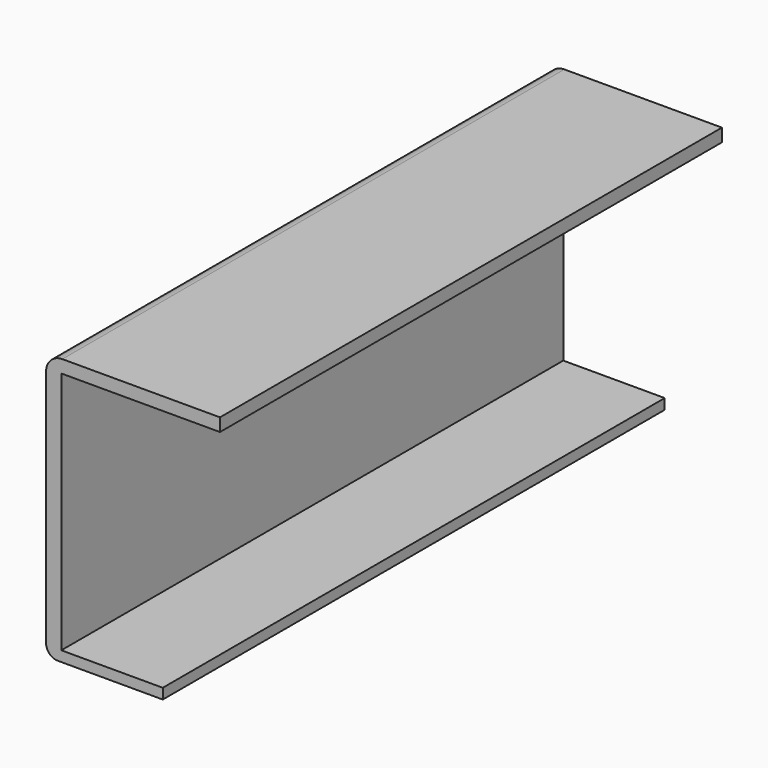
from build123d import *

# Parameters (mm, degrees)
F0_W     = 195.9098130465
F0_H     = 83.3830982447
F1_DEPTH = 4.7625
F2_W     = 195.9098130465
F2_H     = 3.2381750643
F3_DEPTH = 34.8488
F4_R     = 3.6792614691
F5_DEPTH = 3.175
F6_W     = 195.9098130465
F6_H     = 4.0477178991
F7_DEPTH = 49.53
F8_R     = 5.08


with BuildPart() as f1:
    # F0 (on Right) → F1 (new body)
    with BuildSketch(Plane.YZ):
        Rectangle(F0_W, F0_H)
    extrude(amount=F1_DEPTH)

    # F2 (on face) → F3 (join)
    with BuildSketch(Plane.YZ.offset(4.7625)):
        with Locations((0, -40.0724615902)):
            Rectangle(F2_W, F2_H)
    extrude(amount=F3_DEPTH)

    # F4
    f4_edges = [f1.edges().sort_by_distance(p)[0] for p in [
        (0, 0, -41.691549),
    ]]
    fillet(f4_edges, radius=F4_R)

    # F5 (cut): a face of the model
    f5_faces = [f1.faces().sort_by_distance(p)[0] for p in [
        (39.6113, 0, -40.0724615902),
    ]]
    extrude(f5_faces, amount=-F5_DEPTH, mode=Mode.SUBTRACT)

    # F6 (on face) → F7 (join)
    with BuildSketch(Plane.YZ.offset(4.7625)):
        with Locations((0, 39.6676901728)):
            Rectangle(F6_W, F6_H)
    extrude(amount=F7_DEPTH)

    # F8
    f8_edges = [f1.edges().sort_by_distance(p)[0] for p in [
        (0, 0, 41.691549),
    ]]
    fillet(f8_edges, radius=F8_R)


solid = f1.part
